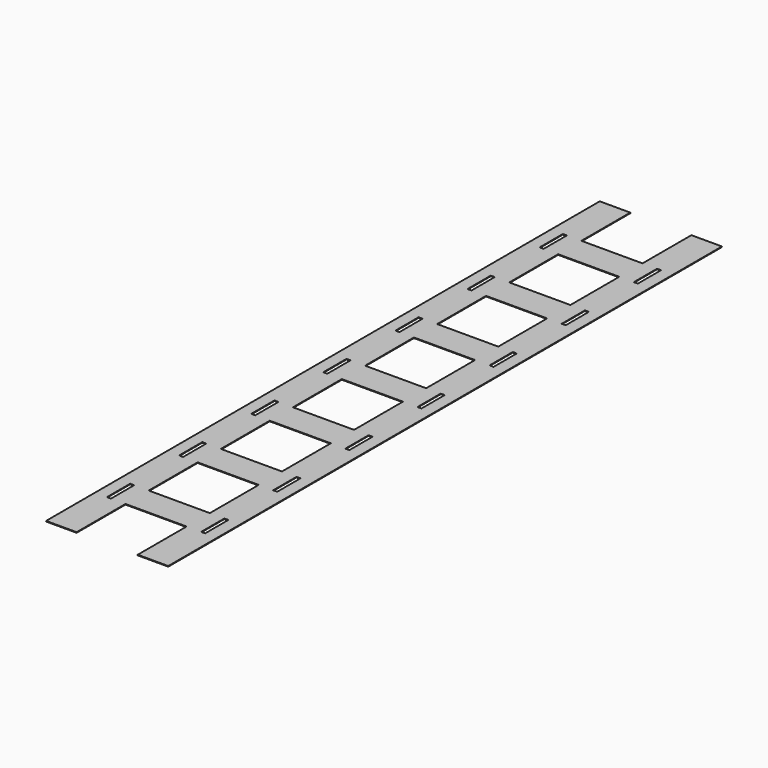
from build123d import *

# Parameters (mm, degrees)
PAD024_DEPTH = 0.15
PAD025_DEPTH = 0.15
PAD026_DEPTH = 0.15
PAD027_DEPTH = 0.15
PAD028_DEPTH = 0.15
PAD029_DEPTH = 0.15
BOX011_W     = 32
BOX011_H     = 10
BOX011_DEPTH = 10
PAD030_DEPTH = 0.15
PAD023_DEPTH = 0.15


with BuildPart() as battery_connector008:
    # Sketch038 → Pad024 (new body)
    with BuildSketch(Plane.XY):
        Polygon((-15.25, -15), (-15.25, 7.5), (-12.25, 7.5), (-12.25, 0.25), (-11.25, 0.25), (-11.25, 7.5), (11.25, 7.5), (11.25, 0.25), (12.25, 0.25), (12.25, 7.5), (15.25, 7.5), (15.25, -15), (7.625, -15), (7.625, 0.25), (-7.625, 0.25), (-7.625, -15), align=None)
    extrude(amount=PAD024_DEPTH)


with BuildPart() as battery_connector008_1:
    # Body032 placement: moved
    add(battery_connector008.part.moved(Location((0, 22.5, 0))))


with BuildPart() as battery_connector009:
    # Sketch039 → Pad025 (new body)
    with BuildSketch(Plane.XY):
        Polygon((-15.25, -15), (-15.25, 7.5), (-12.25, 7.5), (-12.25, 0.25), (-11.25, 0.25), (-11.25, 7.5), (11.25, 7.5), (11.25, 0.25), (12.25, 0.25), (12.25, 7.5), (15.25, 7.5), (15.25, -15), (7.625, -15), (7.625, 0.25), (-7.625, 0.25), (-7.625, -15), align=None)
    extrude(amount=PAD025_DEPTH)


with BuildPart() as battery_connector009_1:
    # Body033 placement: moved
    add(battery_connector009.part.moved(Location((0, 45, 0))))


with BuildPart() as battery_connector010:
    # Sketch040 → Pad026 (new body)
    with BuildSketch(Plane.XY):
        Polygon((-15.25, -15), (-15.25, 7.5), (-12.25, 7.5), (-12.25, 0.25), (-11.25, 0.25), (-11.25, 7.5), (11.25, 7.5), (11.25, 0.25), (12.25, 0.25), (12.25, 7.5), (15.25, 7.5), (15.25, -15), (7.625, -15), (7.625, 0.25), (-7.625, 0.25), (-7.625, -15), align=None)
    extrude(amount=PAD026_DEPTH)


with BuildPart() as battery_connector010_1:
    # Body034 placement: moved
    add(battery_connector010.part.moved(Location((0, 67.5, 0))))


with BuildPart() as battery_connector011:
    # Sketch041 → Pad027 (new body)
    with BuildSketch(Plane.XY):
        Polygon((-15.25, -15), (-15.25, 7.5), (-12.25, 7.5), (-12.25, 0.25), (-11.25, 0.25), (-11.25, 7.5), (11.25, 7.5), (11.25, 0.25), (12.25, 0.25), (12.25, 7.5), (15.25, 7.5), (15.25, -15), (7.625, -15), (7.625, 0.25), (-7.625, 0.25), (-7.625, -15), align=None)
    extrude(amount=PAD027_DEPTH)


with BuildPart() as battery_connector011_1:
    # Body035 placement: moved
    add(battery_connector011.part.moved(Location((0, 90, 0))))


with BuildPart() as battery_connector012:
    # Sketch042 → Pad028 (new body)
    with BuildSketch(Plane.XY):
        Polygon((-15.25, -15), (-15.25, 7.5), (-12.25, 7.5), (-12.25, 0.25), (-11.25, 0.25), (-11.25, 7.5), (11.25, 7.5), (11.25, 0.25), (12.25, 0.25), (12.25, 7.5), (15.25, 7.5), (15.25, -15), (7.625, -15), (7.625, 0.25), (-7.625, 0.25), (-7.625, -15), align=None)
    extrude(amount=PAD028_DEPTH)


with BuildPart() as battery_connector012_1:
    # Body036 placement: moved
    add(battery_connector012.part.moved(Location((0, 112.5, 0))))


with BuildPart() as battery_connector013:
    # Sketch043 → Pad029 (new body)
    with BuildSketch(Plane.XY):
        Polygon((-15.25, -15), (-15.25, 7.5), (-12.25, 7.5), (-12.25, 0.25), (-11.25, 0.25), (-11.25, 7.5), (11.25, 7.5), (11.25, 0.25), (12.25, 0.25), (12.25, 7.5), (15.25, 7.5), (15.25, -15), (7.625, -15), (7.625, 0.25), (-7.625, 0.25), (-7.625, -15), align=None)
    extrude(amount=PAD029_DEPTH)


with BuildPart() as battery_connector013_1:
    # Body037 placement: moved
    add(battery_connector013.part.moved(Location((0, 135, 0))))


with BuildPart() as cube011:
    # Box011 → Box011 (new body)
    with BuildSketch(Plane(origin=(-16, 157.75, -5), x_dir=(1, 0, 0), z_dir=(0, 0, 1))):
        with Locations((16, 5)):
            Rectangle(BOX011_W, BOX011_H)
    extrude(amount=BOX011_DEPTH)


with BuildPart() as cut004:
    # Sketch044 → Pad030 (new body)
    with BuildSketch(Plane.XY):
        Polygon((-15.25, -15), (-15.25, 7.5), (-12.25, 7.5), (-12.25, 0.25), (-11.25, 0.25), (-11.25, 7.5), (11.25, 7.5), (11.25, 0.25), (12.25, 0.25), (12.25, 7.5), (15.25, 7.5), (15.25, -15), (7.625, -15), (7.625, 0.25), (-7.625, 0.25), (-7.625, -15), align=None)
    extrude(amount=PAD030_DEPTH)


with BuildPart() as cut004_1:
    # Body038 placement: moved
    add(cut004.part.moved(Location((0, 157.5, 0))))

    # Cut004: cut Cube011
    add(cube011.part, mode=Mode.SUBTRACT)


with BuildPart() as batteryconnector:
    # Sketch037 → Pad023 (new body)
    with BuildSketch(Plane.XY):
        Polygon((-15.25, -15), (-15.25, 7.5), (-12.25, 7.5), (-12.25, 0.25), (-11.25, 0.25), (-11.25, 7.5), (11.25, 7.5), (11.25, 0.25), (12.25, 0.25), (12.25, 7.5), (15.25, 7.5), (15.25, -15), (7.625, -15), (7.625, 0.25), (-7.625, 0.25), (-7.625, -15), align=None)
    extrude(amount=PAD023_DEPTH)

    # Fusion: union Battery Connector008, Battery Connector009, Battery Connector010, Battery Connector011, Battery Connector012, Battery Connector013, Cut004
    add(battery_connector008_1.part)
    add(battery_connector009_1.part)
    add(battery_connector010_1.part)
    add(battery_connector011_1.part)
    add(battery_connector012_1.part)
    add(battery_connector013_1.part)
    add(cut004_1.part)


with BuildPart() as batteryconnector_1:
    # refine placement: moved
    add(batteryconnector.part.moved(Location((0, -1.273, -56.4))))


solid = batteryconnector_1.part
